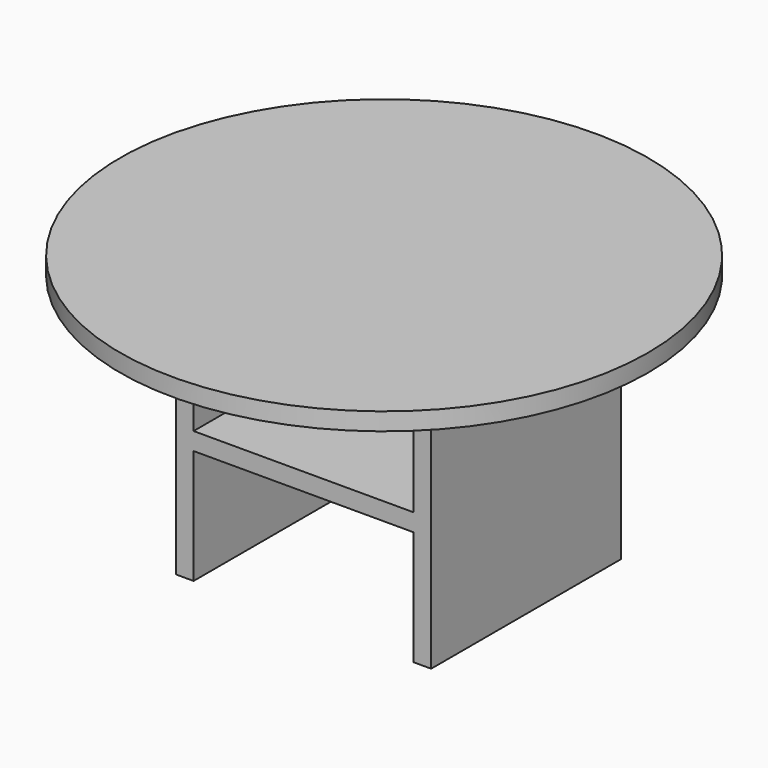
from build123d import *

# Parameters (mm, degrees)
F0_W     = 250
F0_H     = 250
F1_DEPTH = 20
F2_W     = 10
F2_H     = 20
F2_W_2   = 250
F2_W_3   = 9.5461905003
F3_DEPTH = 150
F4_W     = 105
F4_H     = 50
F4_W_2   = 250
F5_DEPTH = 20
F7_R     = 300
F8_DEPTH = 20


with BuildPart() as f1:
    # F0 (on Top) → F1 (new body)
    with BuildSketch(Plane.XY):
        Rectangle(F0_W, F0_H)
    extrude(amount=F1_DEPTH)

    # F2 (on face) → F3 (join, symmetric)
    with BuildSketch(Plane.XY.offset(20)):
        Polygon((-145, -125), (-125, -125), (-125, 125), (-135, 125), (-135, 145), (-145, 145), align=None)
        with Locations((-130, 135)):
            Rectangle(F2_W, F2_H)
        with Locations((0, 135)):
            Rectangle(F2_W_2, F2_H)
        with Locations((129.7730952501, 135)):
            Rectangle(F2_W_3, F2_H)
        Polygon((125, 125), (125, -125), (145, -125), (145, 145), (134.5461905003, 145), (134.5461905003, 125), align=None)
    extrude(amount=F3_DEPTH, both=True)

    # F4 (on face) → F5 (join)
    with BuildSketch(Plane.XY.offset(170)):
        with Locations((-197.5, 89.5141008463)):
            Rectangle(F4_W, F4_H)
        with Locations((-197.5, -18.0167201906)):
            Rectangle(F4_W, F4_H)
        with Locations((0, -18.0167201906)):
            Rectangle(F4_W_2, F4_H)
        with Locations((0, 89.5141008463)):
            Rectangle(F4_W_2, F4_H)
        with Locations((197.5, 89.5141008463)):
            Rectangle(F4_W, F4_H)
        with Locations((197.5, -18.0167201906)):
            Rectangle(F4_W, F4_H)
    extrude(amount=-F5_DEPTH)

    # F7 (on offset) → F8 (join)
    with BuildSketch(Plane.XY.offset(190)):
        with Locations((0, -10.6063758958)):
            Circle(F7_R)
    extrude(amount=-F8_DEPTH)


solid = f1.part
